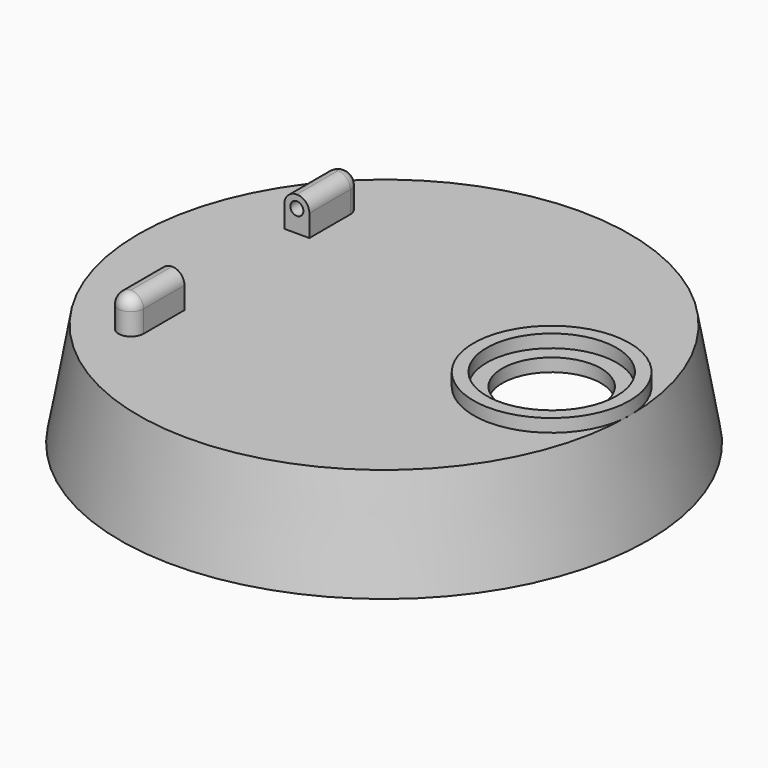
from build123d import *

# Parameters (mm, degrees)
F0_R           = 64.4326190009
F1_DEPTH       = 25.4
F1_TAPER       = 10
F2_T           = -3.175
F3_R           = 19.05
F3_R_2         = 15.875
F4_DEPTH       = 3.175
F3_R_3         = 12.065
F5_DEPTH       = 25.4
F7_DEPTH       = 8.382
F8_R           = 3.048
F9_R           = 1.5875
F10_DEPTH      = 25.4
F10_DEPTH_BACK = 25.4


with BuildPart() as f1:
    # F0 (on Top) → F1 (new body)
    with BuildSketch(Plane.XY):
        Circle(F0_R)
    extrude(amount=F1_DEPTH, taper=F1_TAPER)

    # F2
    f2_openings = [f1.faces().sort_by_distance(p)[0] for p in [
        (0, 0, 0),
    ]]
    offset(amount=F2_T, openings=f2_openings)

    # F3 (on face) → F4 (join)
    with BuildSketch(Plane.XY.offset(25.4)):
        with Locations((40.9039136909, 0)):
            Circle(F3_R)
        with Locations((40.9039136909, 0)):
            Circle(F3_R_2, mode=Mode.SUBTRACT)
    extrude(amount=F4_DEPTH)

    # F3 (on face) → F5 (cut)
    with BuildSketch(Plane.XY.offset(25.4)):
        with Locations((40.9039136909, 0)):
            Circle(F3_R_3)
    extrude(amount=-F5_DEPTH, mode=Mode.SUBTRACT)

    # F6 (on face) → F7 (join)
    with BuildSketch(Plane.XY.offset(25.4)):
        with BuildLine():
            Line((-33.4835186865, -31.5588308226), (-33.4835186865, -19.05))
            Line((-33.4835186865, -19.05), (-39.5865455006, -19.05))
            Line((-39.5865455006, -19.05), (-39.5865455006, -31.5588308226))
            ThreePointArc((-39.5865455006, -31.5588308226), (-36.5350320935, -34.6103442296), (-33.4835186865, -31.5588308226))
        make_face()
        with BuildLine():
            Line((-39.5865455006, 31.5588308226), (-39.5865455006, 19.05))
            Line((-39.5865455006, 19.05), (-33.4835186865, 19.05))
            Line((-33.4835186865, 19.05), (-33.4835186865, 31.5588308226))
            ThreePointArc((-33.4835186865, 31.5588308226), (-36.5350320935, 34.6103442296), (-39.5865455006, 31.5588308226))
        make_face()
    extrude(amount=F7_DEPTH)

    # F8
    f8_edges = [f1.edges().sort_by_distance(p)[0] for p in [
        (-33.483519, -25.304415, 33.782),
        (-39.586546, -25.304415, 33.782),
        (-36.535032, -34.610344, 33.782),
        (-33.483519, 25.304415, 33.782),
    ]]
    fillet(f8_edges, radius=F8_R)

    # F9 (on Front) → F10 (cut, two sides)
    with BuildSketch(Plane.XZ) as f10_sk:
        with Locations((-36.5315186865, 30.734)):
            Circle(F9_R)
    extrude(amount=F10_DEPTH, mode=Mode.SUBTRACT)
    extrude(f10_sk.sketch, amount=-F10_DEPTH_BACK, mode=Mode.SUBTRACT)


solid = f1.part
